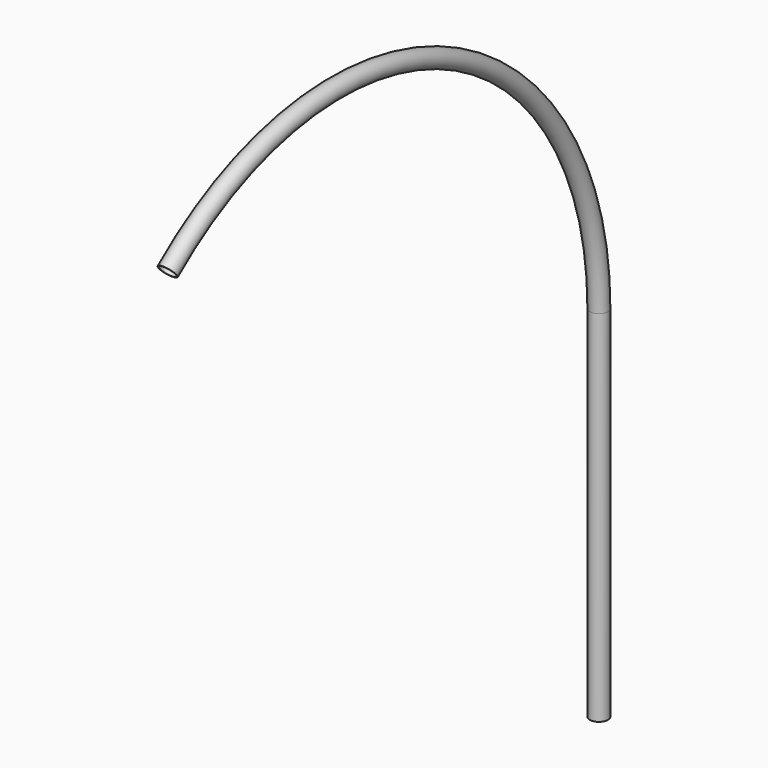
from build123d import *

# Parameters (mm, degrees)
F1_R   = 50
F1_R_2 = 45


with BuildPart() as f2:
    # F2: sweep along a path in F0
    with BuildLine(Plane.YZ) as f2_path:
        Line((0, 0), (0, 2000))
        ThreePointArc((0, 2000), (-1054.195883, 3655.294536), (-3000, 3400))
    # F1 (on Top) → F2 (sweep)
    with BuildSketch(Plane.XY):
        Circle(F1_R)
        Circle(F1_R_2, mode=Mode.SUBTRACT)
    sweep(path=f2_path.line)


solid = f2.part
